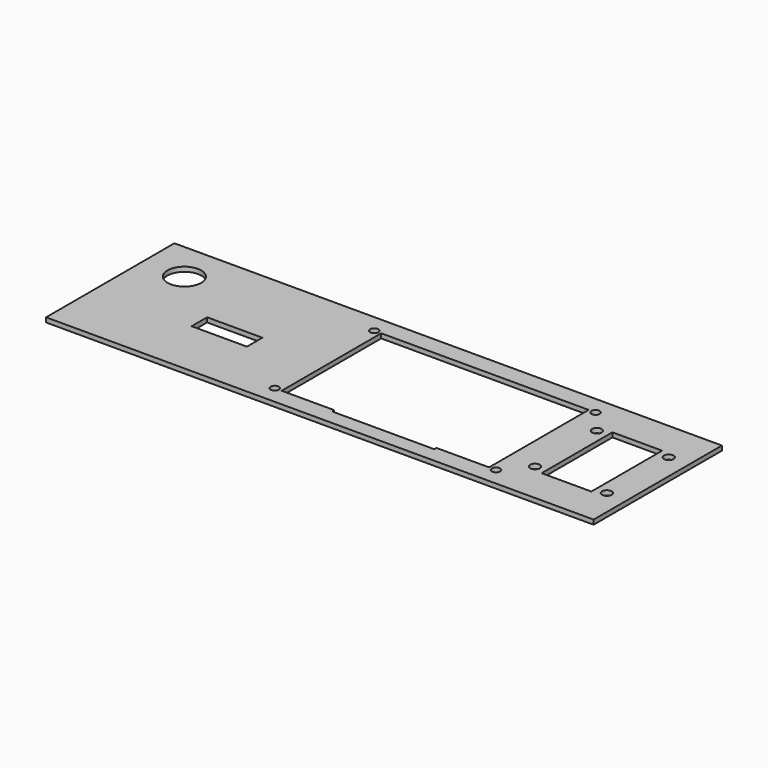
from build123d import *

# Parameters (mm, degrees)
SKETCH_W        = 198
SKETCH_H        = 58
PAD_DEPTH       = 1.65
SKETCH001_R     = 6.1
SKETCH001_R_2   = 1.75
SKETCH001_R_3   = 1.5
SKETCH001_W     = 18
SKETCH001_H     = 32
SKETCH001_W_2   = 20
SKETCH001_H_2   = 7
POCKET_DEPTH    = 5
SKETCH002_W     = 3
SKETCH002_H     = 20.3
SKETCH002_H_2   = 24
POCKET001_DEPTH = 0.5


with BuildPart() as part:
    # Sketch → Pad (new body)
    with BuildSketch(Plane.XY):
        with Locations((99, 29)):
            Rectangle(SKETCH_W, SKETCH_H)
    extrude(amount=PAD_DEPTH)

    # Sketch001 (on Face6 of Pad) → Pocket (cut)
    with BuildSketch(Plane.XY.offset(1.65)):
        with Locations((14.95, 43.825)):
            Circle(SKETCH001_R)
        with Locations((164.8, 43)):
            Circle(SKETCH001_R_2)
        with Locations((190.8, 43)):
            Circle(SKETCH001_R_2)
        with Locations((164.8, 15)):
            Circle(SKETCH001_R_2)
        with Locations((190.8, 15)):
            Circle(SKETCH001_R_2)
        with Locations((77.5, 51.5)):
            Circle(SKETCH001_R_3)
        with Locations((77.5, 6.5)):
            Circle(SKETCH001_R_3)
        with Locations((157.5, 6.5)):
            Circle(SKETCH001_R_3)
        with Locations((157.5, 51.5)):
            Circle(SKETCH001_R_3)
        with Locations((177.8, 29)):
            Rectangle(SKETCH001_W, SKETCH001_H)
        with Locations((45.49, 24.925)):
            Rectangle(SKETCH001_W_2, SKETCH001_H_2)
        Polygon((80, 51.5), (155, 51.5), (155, 6.5), (136, 6.5), (136, 5.5), (99, 5.5), (99, 6.5), (80, 6.5), align=None)
    extrude(amount=-POCKET_DEPTH, mode=Mode.SUBTRACT)

    # Sketch002 → Pocket001 (cut)
    with BuildSketch(Plane.XY):
        with Locations((77.5, 29.15)):
            Rectangle(SKETCH002_W, SKETCH002_H)
        with Locations((164.8, 29)):
            Rectangle(SKETCH002_W, SKETCH002_H_2)
    extrude(amount=POCKET001_DEPTH, mode=Mode.SUBTRACT)


solid = part.part
